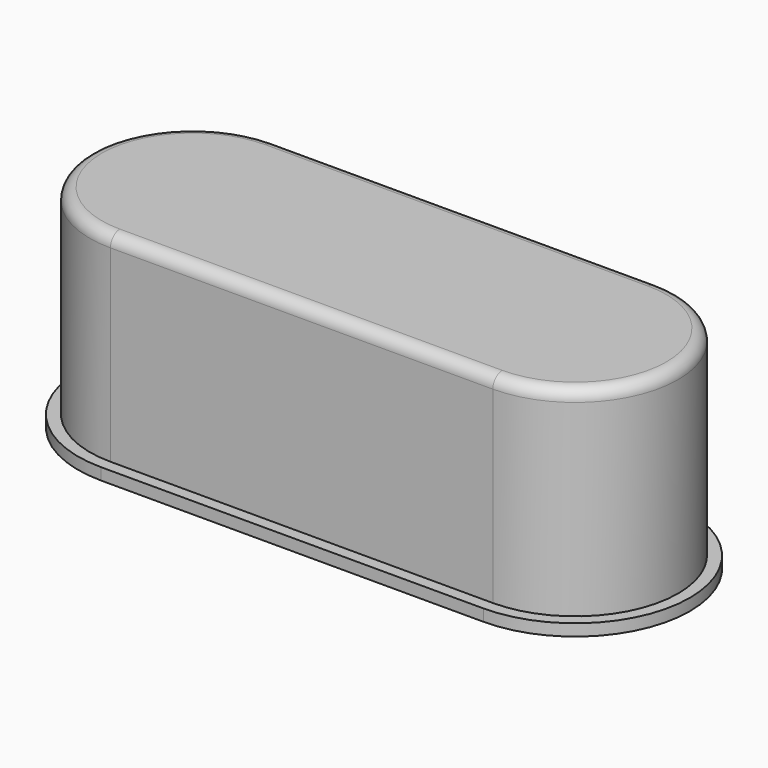
from build123d import *

# Parameters (mm, degrees)
CYLINDER005_W     = 1.75
CYLINDER005_H     = 3.4
CYLINDER005_ANGLE = 180
CYLINDER004_W     = 1.75
CYLINDER004_H     = 3.4
CYLINDER004_ANGLE = 180
BOX010_W          = 6.5
BOX010_H          = 3.9
BOX010_DEPTH      = 0.2
CYLINDER006_W     = 1.95
CYLINDER006_H     = 0.2
CYLINDER006_ANGLE = 180
CYLINDER007_W     = 1.95
CYLINDER007_H     = 0.2
CYLINDER007_ANGLE = 180
BOX009_W          = 6.5
BOX009_H          = 3.5
BOX009_DEPTH      = 3.4
FILLET001_R       = 0.2


with BuildPart() as cylinder005:
    # Cylinder005 → Cylinder005 (revolve)
    with BuildSketch(Plane(origin=(3.25, 0, 0.6), x_dir=(0, -1, 0), z_dir=(-1, 0, 0))):
        with Locations((0.875, 1.7)):
            Rectangle(CYLINDER005_W, CYLINDER005_H)
    revolve(axis=Axis((3.25, 0, 0.6), (0, 0, 1)), revolution_arc=CYLINDER005_ANGLE)


with BuildPart() as cylinder004:
    # Cylinder004 → Cylinder004 (revolve)
    with BuildSketch(Plane(origin=(-3.25, 0, 0.6), x_dir=(0, 1, 0), z_dir=(1, 0, 0))):
        with Locations((0.875, 1.7)):
            Rectangle(CYLINDER004_W, CYLINDER004_H)
    revolve(axis=Axis((-3.25, 0, 0.6), (0, 0, 1)), revolution_arc=CYLINDER004_ANGLE)


with BuildPart() as cube008:
    # Box010 → Box010 (new body)
    with BuildSketch(Plane(origin=(-3.25, -1.95, 0.4), x_dir=(1, 0, 0), z_dir=(0, 0, 1))):
        with Locations((3.25, 1.95)):
            Rectangle(BOX010_W, BOX010_H)
    extrude(amount=BOX010_DEPTH)


with BuildPart() as cylinder006:
    # Cylinder006 → Cylinder006 (revolve)
    with BuildSketch(Plane(origin=(-3.25, 0, 0.4), x_dir=(0, 1, 0), z_dir=(1, 0, 0))):
        with Locations((0.975, 0.1)):
            Rectangle(CYLINDER006_W, CYLINDER006_H)
    revolve(axis=Axis((-3.25, 0, 0.4), (0, 0, 1)), revolution_arc=CYLINDER006_ANGLE)


with BuildPart() as cylinder007:
    # Cylinder007 → Cylinder007 (revolve)
    with BuildSketch(Plane(origin=(3.25, 0, 0.4), x_dir=(0, -1, 0), z_dir=(-1, 0, 0))):
        with Locations((0.975, 0.1)):
            Rectangle(CYLINDER007_W, CYLINDER007_H)
    revolve(axis=Axis((3.25, 0, 0.4), (0, 0, 1)), revolution_arc=CYLINDER007_ANGLE)


with BuildPart() as cap:
    # Box009 → Box009 (new body)
    with BuildSketch(Plane(origin=(-3.25, -1.75, 0.6), x_dir=(1, 0, 0), z_dir=(0, 0, 1))):
        with Locations((3.25, 1.75)):
            Rectangle(BOX009_W, BOX009_H)
    extrude(amount=BOX009_DEPTH)

    # Fusion001: union Cylinder005, Cylinder004, Cube008, Cylinder006, Cylinder007
    add(cylinder005.part)
    add(cylinder004.part)
    add(cube008.part)
    add(cylinder006.part)
    add(cylinder007.part)

    # Fillet001
    fillet001_edges = [cap.edges().sort_by_distance(p)[0] for p in [
        (0, -1.75, 4),
        (5, 0, 4),
        (0, 1.75, 4),
        (-5, 0, 4),
    ]]
    fillet(fillet001_edges, radius=FILLET001_R)


solid = cap.part
